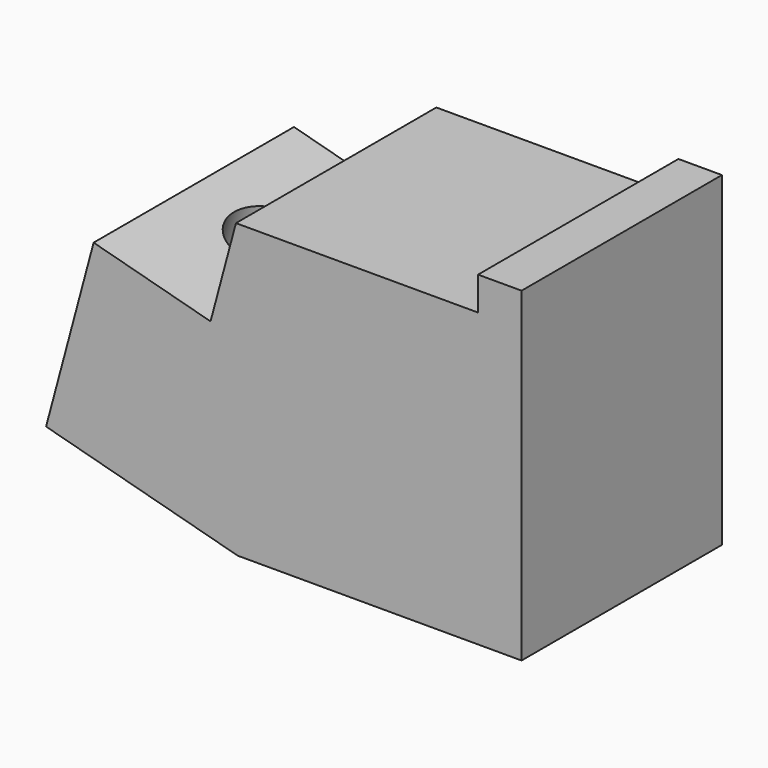
from build123d import *

# Parameters (mm, degrees)
F1_DEPTH = 15
F2_R     = 4.75
F3_DEPTH = 27.9413777505
F4_R     = 2
F5_DEPTH = 5.4425781151


with BuildPart() as f1:
    # F0 (on Front) → F1 (new body, symmetric)
    with BuildSketch(Plane.XZ):
        Polygon((-22.9518571486, 6.1499315878), (0, 0), (34, 0), (34, 39), (28.79, 39), (28.79, 35), (-0.21, 35), (-3.2519136751, 23.6474236121), (-17.2578381563, 27.4002997661), align=None)
    extrude(amount=F1_DEPTH, both=True)

    # F2 (on face) → F3 (cut, through all)
    with BuildSketch(Plane(origin=(5.6940189923, 0, 21.2503681784), x_dir=(0.9659258263, 0, -0.2588190451), z_dir=(0.2588190451, 0, 0.9659258263))):
        with Locations((-14.0115110021, 0)):
            Circle(F2_R)
    extrude(amount=-F3_DEPTH, mode=Mode.SUBTRACT)

    # F4 (on face) → F5 (cut, through all)
    with BuildSketch(Plane(origin=(-22.9518571486, 0, 6.1499315878), x_dir=(0, -1, 0), z_dir=(-0.9659258263, 0, 0.2588190451))):
        with Locations((0, 11)):
            Circle(F4_R)
    extrude(amount=-F5_DEPTH, mode=Mode.SUBTRACT)


solid = f1.part
